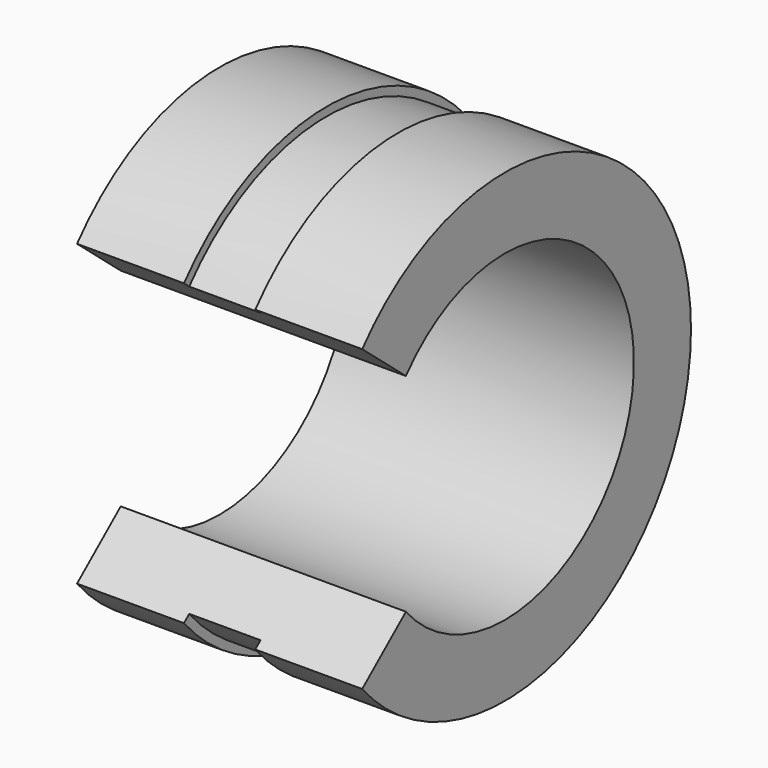
from build123d import *

# Parameters (mm, degrees)
F1_ANGLE = 280


with BuildPart() as f1:
    # F0 (on Top) → F1 (revolve, symmetric)
    with BuildSketch(Plane.XY) as f1_sk:
        Polygon((-24.746018, 20.7264), (-34.271018, 20.7264), (-34.271018, 14.3764), (-8.871018, 14.3764), (-8.871018, 20.7264), (-18.396018, 20.7264), (-18.396018, 19.9644), (-24.746018, 19.9644), align=None)
    revolve(axis=Axis((-0.871302, 0, 0), (1, 0, 0)), revolution_arc=F1_ANGLE / 2)
    revolve(f1_sk.sketch, axis=Axis((-0.871302, 0, 0), (-1, 0, 0)), revolution_arc=F1_ANGLE / 2)


solid = f1.part
